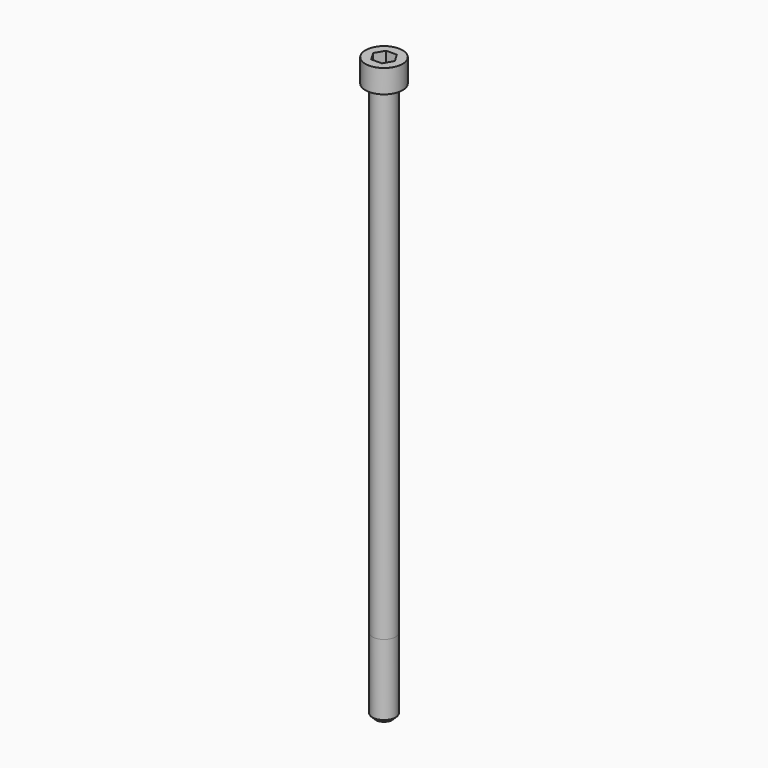
from build123d import *

# Parameters (mm, degrees)
POCKET_DEPTH = 8.07


with BuildPart() as part:
    # Sketch → Revolve (revolve)
    with BuildSketch(Plane.YZ):
        with BuildLine():
            Line((4.999, 0), (8, 0))
            Line((8, 0), (8, 9.97229))
            ThreePointArc((8, 9.97229), (7.991884, 9.991884), (7.97229, 10))
            Line((7.97229, 10), (0, 10))
            Line((0, -240), (0, 10))
            Line((3.5, -240), (0, -240))
            Line((5, -238.5), (3.5, -240))
            Line((5, -208), (5, -238.5))
            Line((4.999, 0), (5, -208))
        make_face()
    revolve(axis=Axis((0, 0, 0), (0, 0, 1)))

    # Sketch001 → Pocket (cut)
    with BuildSketch(Plane.XY.offset(10)):
        Polygon((4.659217, 0), (2.329608, 4.035), (-2.329608, 4.035), (-4.659217, 0), (-2.329608, -4.035), (2.329608, -4.035), align=None)
    extrude(amount=-POCKET_DEPTH, mode=Mode.SUBTRACT)


solid = part.part
